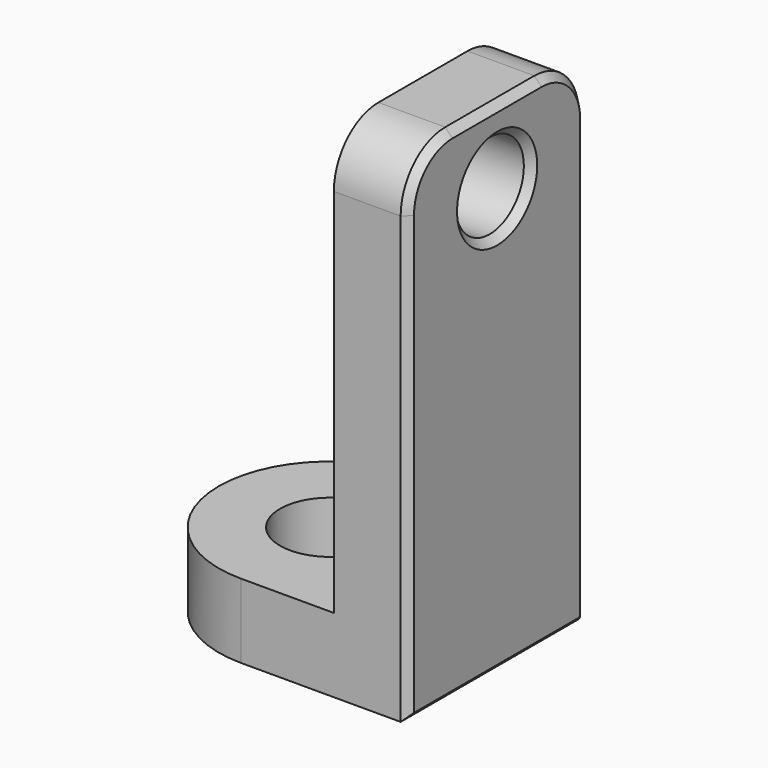
from build123d import *

# Parameters (mm, degrees)
F0_R     = 1.35
F1_W     = 2
F1_H     = 6
F5_R     = 1.15
F6_DEPTH = 17.001
F7_R     = 1.5
F8_SIZE  = 0.2


with BuildPart() as f3:
    # F3: sweep along a path in F2
    with BuildLine(Plane.XZ) as f3_path:
        Line((0, -2), (0, 0))
    # F0 (on Top) → F3 (sweep)
    with BuildSketch(Plane.XY):
        with BuildLine():
            Line((-9.5, -3), (-9.5, 3))
            Line((-9.5, 3), (-14, 3))
            ThreePointArc((-14, 3), (-17, 0), (-14, -3))
            Line((-14, -3), (-9.5, -3))
        make_face()
        with Locations((-14, 0)):
            Circle(F0_R, mode=Mode.SUBTRACT)
    sweep(path=f3_path.line)

    # F4: sweep along a path in F2
    with BuildLine(Plane.XZ) as f4_path:
        Line((0, 0), (0, 11.5))
    # F1 (on Top) → F4 (sweep)
    with BuildSketch(Plane.XY):
        with Locations((-10.5, 0)):
            Rectangle(F1_W, F1_H)
    sweep(path=f4_path.line)

    # F5 (on Right) → F6 (cut, through all)
    with BuildSketch(Plane.YZ):
        with Locations((0, 9.5)):
            Circle(F5_R)
    extrude(amount=-F6_DEPTH, mode=Mode.SUBTRACT)

    # F7
    f7_edges = [f3.edges().sort_by_distance(p)[0] for p in [
        (-10.5, 3, 11.5),
        (-10.5, -3, 11.5),
    ]]
    fillet(f7_edges, radius=F7_R)

    # F8
    f8_edges = [f3.edges().sort_by_distance(p)[0] for p in [
        (-9.5, -3, 4),
        (-9.5, -2.56066, 11.06066),
        (-9.5, 0, -2),
        (-9.5, 0, 11.5),
        (-9.5, 3, 4),
        (-9.5, 2.56066, 11.06066),
        (-9.5, -1.15, 9.5),
    ]]
    chamfer(f8_edges, length=F8_SIZE)


solid = f3.part
